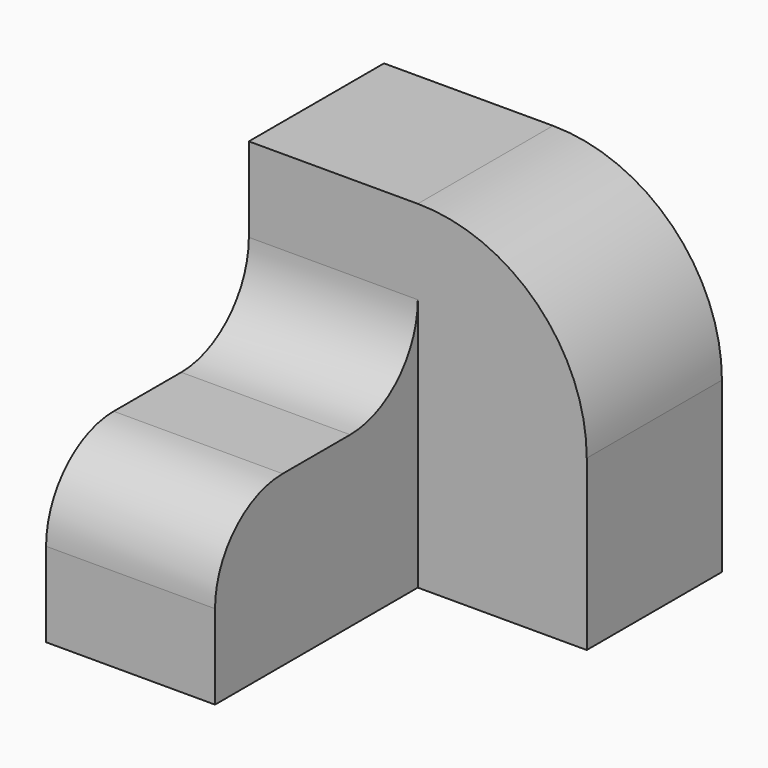
from build123d import *

# Parameters (mm, degrees)
SKETCH_W     = 40
SKETCH_H     = 20
PAD_DEPTH    = 40
FILLET_R     = 20
SKETCH001_W  = 20
SKETCH001_H  = 30
PAD001_DEPTH = 20
FILLET001_R  = 10
FILLET002_R  = 10


with BuildPart() as part:
    # Sketch → Pad (new body)
    with BuildSketch(Plane.XY):
        with Locations((0, 15)):
            Rectangle(SKETCH_W, SKETCH_H)
    extrude(amount=PAD_DEPTH)

    # Fillet
    fillet_edges = [part.edges().sort_by_distance(p)[0] for p in [
        (20, 15, 40),
    ]]
    fillet(fillet_edges, radius=FILLET_R)

    # Sketch001 (on Face4 of Fillet) → Pad001 (join)
    with BuildSketch(Plane(origin=(0, 0, 0), x_dir=(1, 0, 0), z_dir=(0, 0, -1))):
        with Locations((-10, 10)):
            Rectangle(SKETCH001_W, SKETCH001_H)
    extrude(amount=-PAD001_DEPTH)

    # Fillet001
    fillet001_edges = [part.edges().sort_by_distance(p)[0] for p in [
        (-10, -25, 20),
    ]]
    fillet(fillet001_edges, radius=FILLET001_R)

    # Fillet002
    fillet002_edges = [part.edges().sort_by_distance(p)[0] for p in [
        (-10, 5, 20),
    ]]
    fillet(fillet002_edges, radius=FILLET002_R)


solid = part.part
